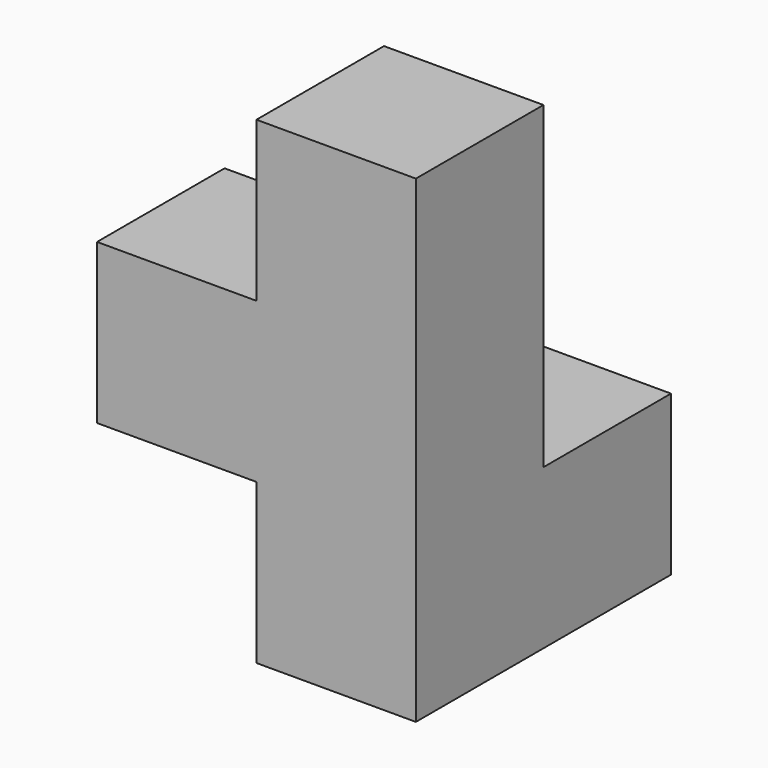
from build123d import *

# Parameters (mm, degrees)
F0_W     = 10
F0_H     = 10
F1_DEPTH = 20
F2_W     = 10
F2_H     = 10
F3_DEPTH = 10
F4_W     = 10
F4_H     = 10
F5_DEPTH = 10
F6_W     = 10
F6_H     = 10
F7_DEPTH = 10
F8_W     = 10
F8_H     = 10
F9_DEPTH = 10


with BuildPart() as f1:
    # F0 (on Top) → F1 (new body)
    with BuildSketch(Plane.XY):
        with Locations((5, -5)):
            Rectangle(F0_W, F0_H)
    extrude(amount=F1_DEPTH)

    # F2 (on Right) → F3 (join)
    with BuildSketch(Plane.YZ):
        with Locations((-5, 5)):
            Rectangle(F2_W, F2_H)
    extrude(amount=F3_DEPTH)

    # F4 (on Right) → F5 (join)
    with BuildSketch(Plane.YZ):
        with Locations((-5, 5)):
            Rectangle(F4_W, F4_H)
    extrude(amount=-F5_DEPTH)

    # F6 (on face) → F7 (join)
    with BuildSketch(Plane(origin=(0, 0, 0), x_dir=(1, 0, 0), z_dir=(0, 0, -1))):
        with Locations((5, 5)):
            Rectangle(F6_W, F6_H)
    extrude(amount=F7_DEPTH)

    # F8 (on Front) → F9 (join)
    with BuildSketch(Plane.XZ):
        with Locations((5, -5)):
            Rectangle(F8_W, F8_H)
    extrude(amount=-F9_DEPTH)


solid = f1.part
